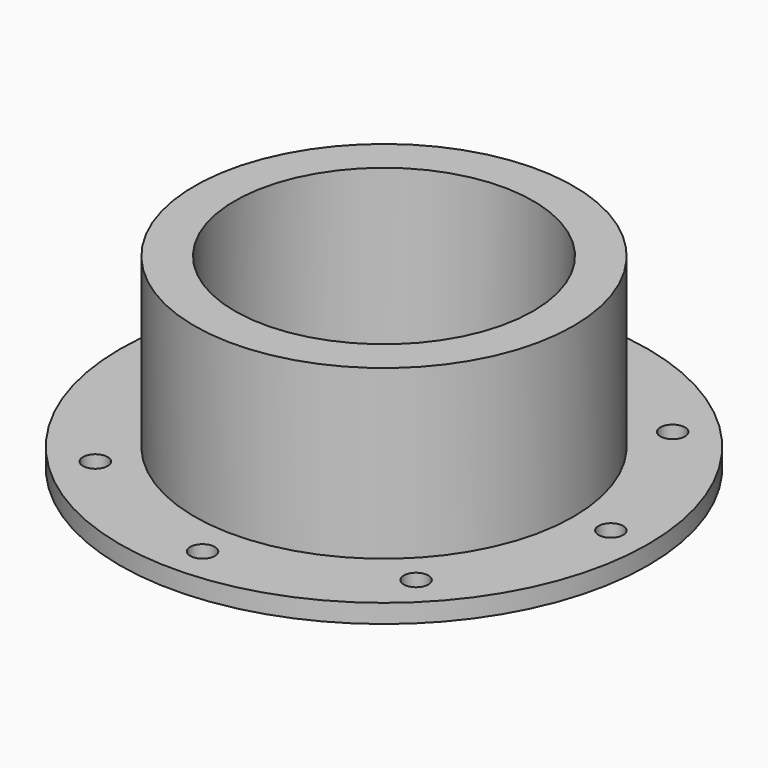
from build123d import *

# Parameters (mm, degrees)
F0_R     = 50.8
F0_R_2   = 40
F1_DEPTH = 50
F2_R     = 70.8
F2_R_2   = 3.3
F2_R_3   = 50.8
F3_DEPTH = 5


with BuildPart() as f1:
    # F0 (on Top) → F1 (new body)
    with BuildSketch(Plane.XY):
        Circle(F0_R)
        Circle(F0_R_2, mode=Mode.SUBTRACT)
    extrude(amount=F1_DEPTH)

    # F2 (on Top) → F3 (join)
    with BuildSketch(Plane.XY):
        Circle(F2_R)
        with Locations((-42.992092, -42.992092)):
            Circle(F2_R_2, mode=Mode.SUBTRACT)
        with Locations((0, -60.8)):
            Circle(F2_R_2, mode=Mode.SUBTRACT)
        with Locations((42.992092, -42.992092)):
            Circle(F2_R_2, mode=Mode.SUBTRACT)
        with Locations((-60.8, 0)):
            Circle(F2_R_2, mode=Mode.SUBTRACT)
        with Locations((-42.992092, 42.992092)):
            Circle(F2_R_2, mode=Mode.SUBTRACT)
        Circle(F2_R_3, mode=Mode.SUBTRACT)
        with Locations((60.8, 0)):
            Circle(F2_R_2, mode=Mode.SUBTRACT)
        with Locations((0, 60.8)):
            Circle(F2_R_2, mode=Mode.SUBTRACT)
        with Locations((42.992092, 42.992092)):
            Circle(F2_R_2, mode=Mode.SUBTRACT)
    extrude(amount=F3_DEPTH)


solid = f1.part
